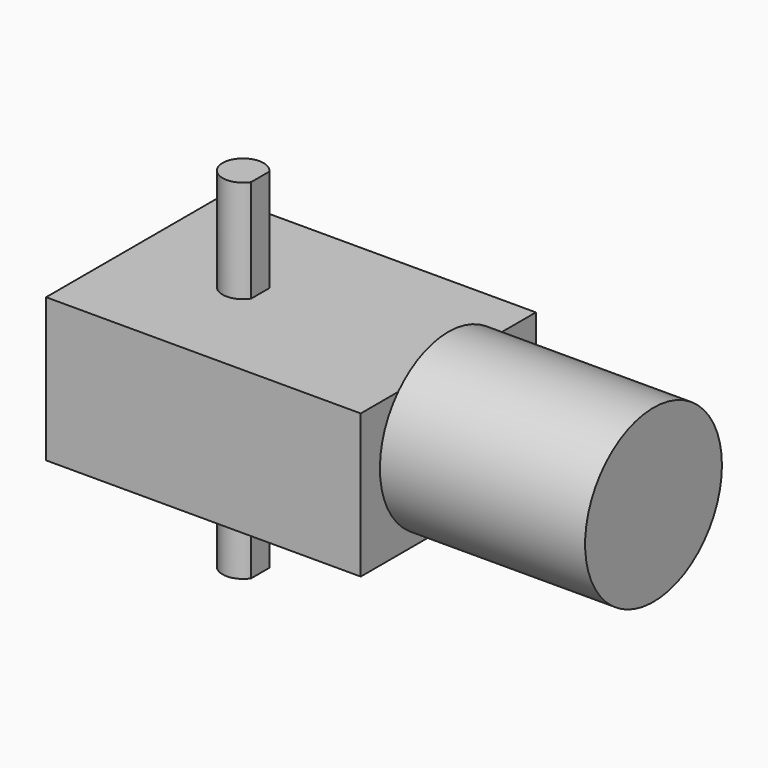
from build123d import *

# Parameters (mm, degrees)
SKETCH_W     = 46
SKETCH_H     = 32
PAD_DEPTH    = 21
SKETCH001_R  = 12.5
PAD001_DEPTH = 30
PAD002_DEPTH = 15
PAD003_DEPTH = 15


with BuildPart() as part:
    # Sketch → Pad (new body)
    with BuildSketch(Plane.XY):
        with Locations((7, 0)):
            Rectangle(SKETCH_W, SKETCH_H)
    extrude(amount=PAD_DEPTH)

    # Sketch001 (on Face2 of Pad) → Pad001 (join)
    with BuildSketch(Plane.YZ.offset(30)):
        with Locations((0, 12.5)):
            Circle(SKETCH001_R)
    extrude(amount=PAD001_DEPTH)

    # Sketch002 (on Face4 of Pad001) → Pad002 (join)
    with BuildSketch(Plane(origin=(0, 0, 0), x_dir=(1, 0, 0), z_dir=(0, 0, -1))):
        with BuildLine():
            ThreePointArc((2.5, 1.658312), (-3, 0), (2.5, -1.658312))
            Line((2.5, 1.658312), (2.5, -1.658312))
        make_face()
    extrude(amount=PAD002_DEPTH)

    # Sketch003 (on Face5 of Pad002) → Pad003 (join)
    with BuildSketch(Plane.XY.offset(21)):
        with BuildLine():
            ThreePointArc((2.5, 1.658312), (-3, 0), (2.5, -1.658312))
            Line((2.5, 1.658312), (2.5, -1.658312))
        make_face()
    extrude(amount=PAD003_DEPTH)


solid = part.part
